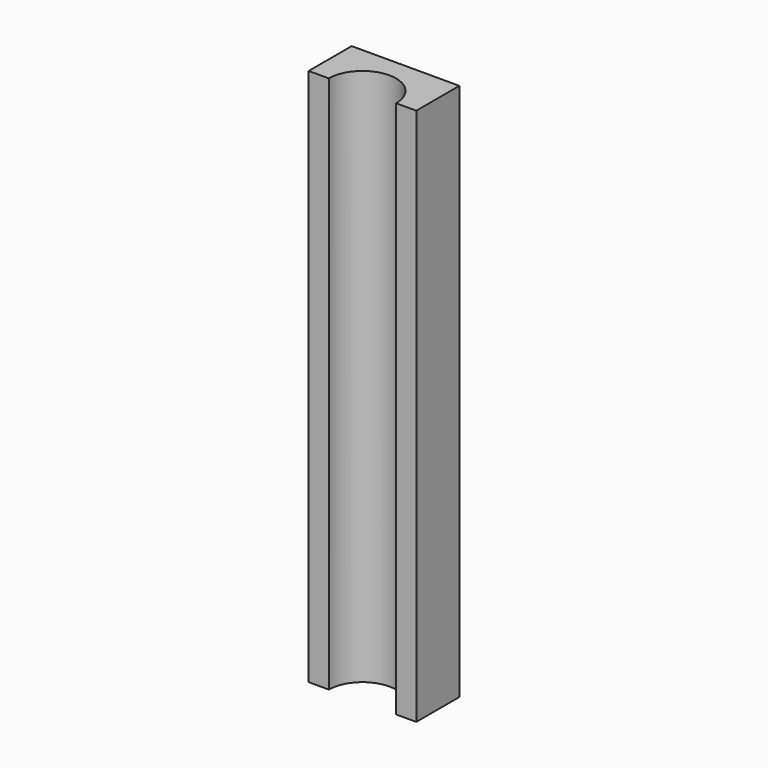
from build123d import *

# Parameters (mm, degrees)
F1_DEPTH = 20


with BuildPart() as f1:
    # F0 (on Top) → F1 (new body)
    with BuildSketch(Plane.XY):
        with BuildLine():
            Line((1.25, -1), (2, -1))
            Line((2, -1), (2, 1))
            Line((2, 1), (-2, 1))
            Line((-2, 1), (-2, -1))
            Line((-2, -1), (-1.25, -1))
            ThreePointArc((-1.25, -1), (0, 0.25), (1.25, -1))
        make_face()
    extrude(amount=F1_DEPTH)


solid = f1.part
